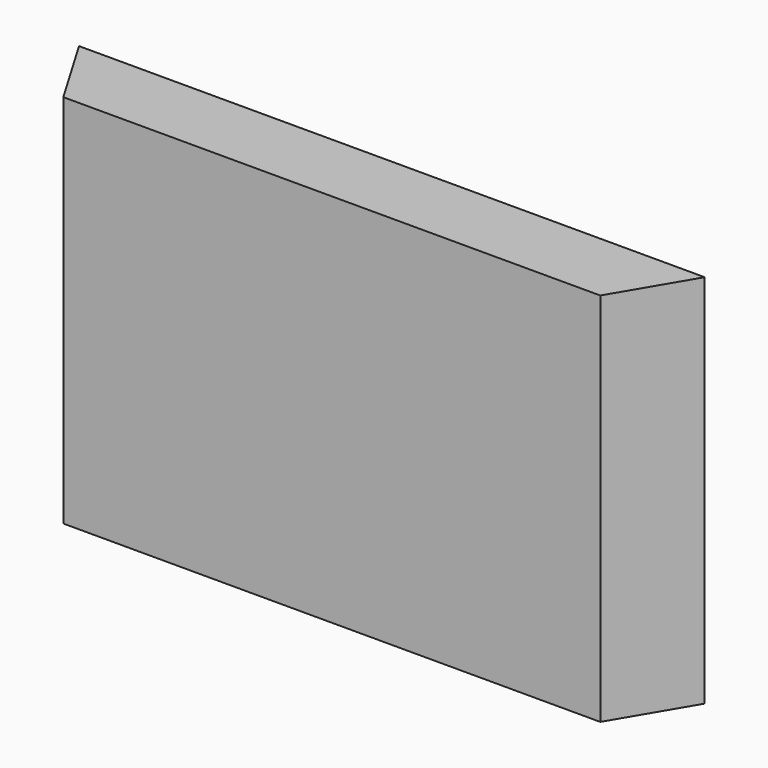
from build123d import *

# Parameters (mm, degrees)
F0_W     = 31.75
F0_H     = 38.1
F1_DEPTH = 7.62
F3_DEPTH = 38.5826


with BuildPart() as f1:
    # F0 (on Front) → F1 (new body)
    with BuildSketch(Plane.XZ):
        with Locations((-7.408333, 4.418541)):
            Rectangle(F0_W, F0_H)
        with Locations((24.341667, 4.418541)):
            Rectangle(F0_W, F0_H)
    extrude(amount=F1_DEPTH)

    # F2 (on face) → F3 (cut)
    with BuildSketch(Plane.XY.offset(23.468541)):
        Polygon((40.216667, -7.62), (40.216667, 0), (35.714291, -7.62), align=None)
        Polygon((-18.780957, -7.62), (-23.283333, 0), (-23.283333, -7.62), align=None)
    extrude(amount=-F3_DEPTH, mode=Mode.SUBTRACT)


solid = f1.part
